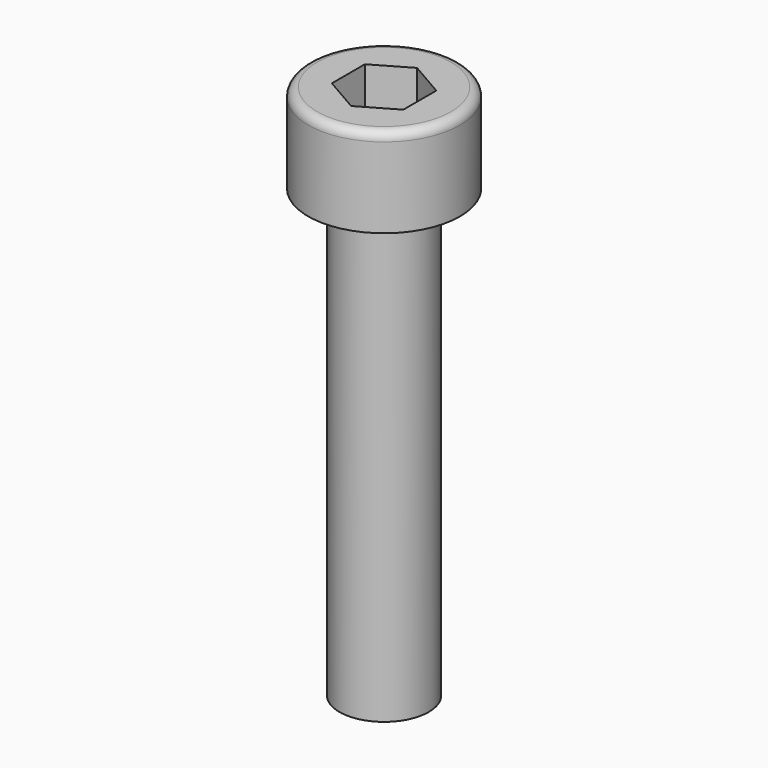
from build123d import *

# Parameters (mm, degrees)
F0_R     = 4.25
F0_R_2   = 2.5
F1_DEPTH = 5
F2_DEPTH = 30
F3_DEPTH = 3
F4_R     = 0.5


with BuildPart() as f1:
    # F0 (on Top) → F1 (new body)
    with BuildSketch(Plane.XY):
        Circle(F0_R)
        Circle(F0_R_2, mode=Mode.SUBTRACT)
    extrude(amount=-F1_DEPTH)

    # F0 (on Top) → F2 (join)
    with BuildSketch(Plane.XY):
        Circle(F0_R_2)
        Polygon((0, 2.309401), (2, 1.154701), (2, -1.154701), (0, -2.309401), (-2, -1.154701), (-2, 1.154701), align=None, mode=Mode.SUBTRACT)
        Polygon((2, -1.154701), (2, 1.154701), (0, 2.309401), (-2, 1.154701), (-2, -1.154701), (0, -2.309401), align=None)
    extrude(amount=-F2_DEPTH)

    # F0 (on Top) → F3 (cut)
    with BuildSketch(Plane.XY):
        Polygon((2, -1.154701), (2, 1.154701), (0, 2.309401), (-2, 1.154701), (-2, -1.154701), (0, -2.309401), align=None)
    extrude(amount=-F3_DEPTH, mode=Mode.SUBTRACT)

    # F4
    f4_edges = [f1.edges().sort_by_distance(p)[0] for p in [
        (-4.25, 0, 0),
    ]]
    fillet(f4_edges, radius=F4_R)


solid = f1.part
